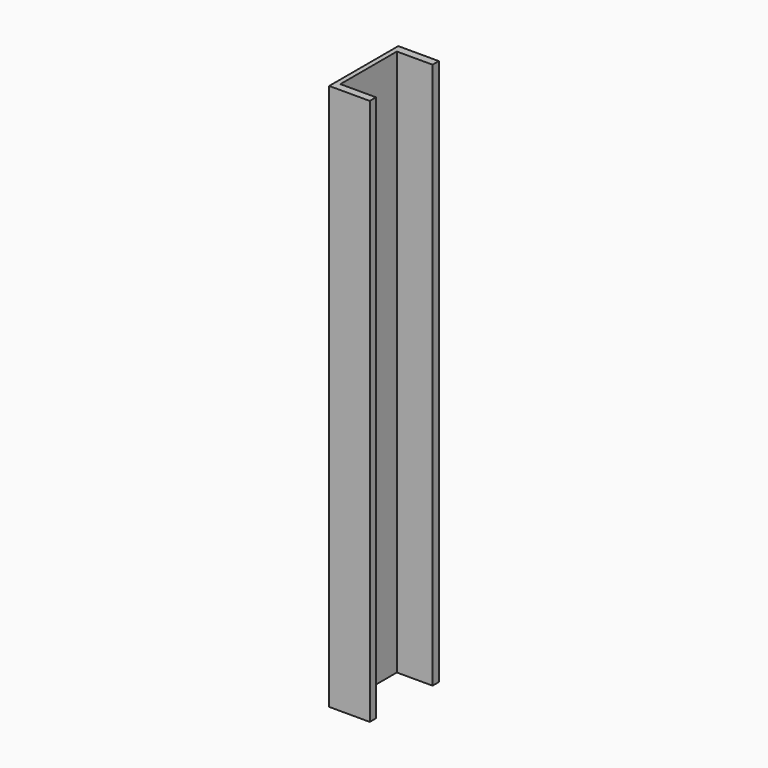
from build123d import *

# Parameters (mm, degrees)
F0_W     = 76.2
F0_H     = 482.6
F1_DEPTH = 35.814
F2_W     = 31.496
F2_H     = 62.3316
F3_DEPTH = 482.601


with BuildPart() as f1:
    # F0 (on Right) → F1 (new body)
    with BuildSketch(Plane.YZ):
        with Locations((-1.328756, 26.93686)):
            Rectangle(F0_W, F0_H)
    extrude(amount=F1_DEPTH)

    # F2 (on face) → F3 (cut, through all)
    with BuildSketch(Plane.XY.offset(268.23686)):
        with Locations((20.066, -1.328756)):
            Rectangle(F2_W, F2_H)
    extrude(amount=-F3_DEPTH, mode=Mode.SUBTRACT)


solid = f1.part
